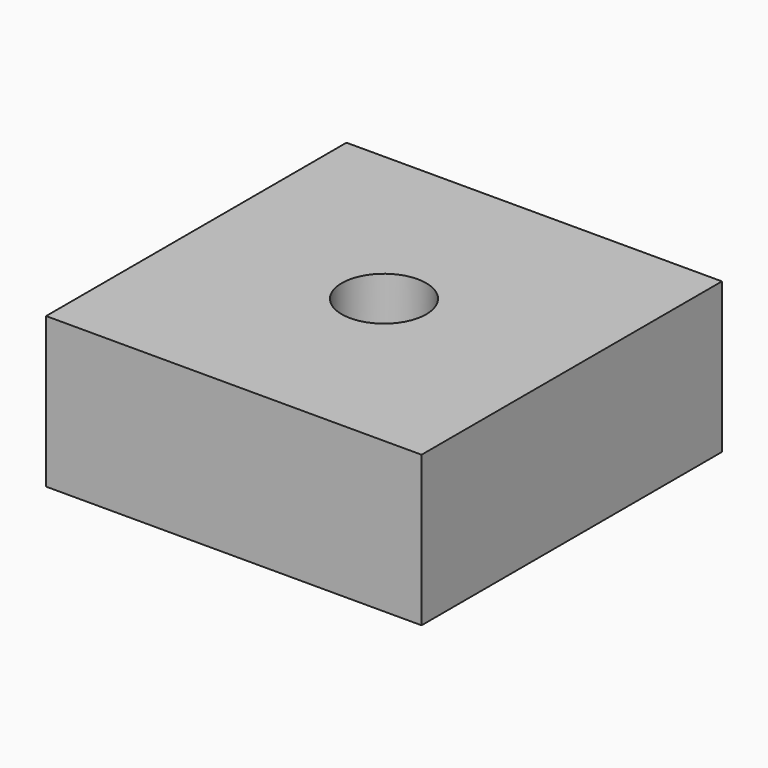
from build123d import *

# Parameters (mm, degrees)
F0_W     = 20
F0_H     = 20
F0_R     = 4
F0_R_2   = 2.25
F1_DEPTH = 8
F2_DEPTH = 5


with BuildPart() as f1:
    # F0 (on Top) → F1 (new body)
    with BuildSketch(Plane.XY):
        Rectangle(F0_W, F0_H)
        Circle(F0_R, mode=Mode.SUBTRACT)
        Circle(F0_R)
        Circle(F0_R_2, mode=Mode.SUBTRACT)
    extrude(amount=F1_DEPTH)

    # F0 (on Top) → F2 (cut)
    with BuildSketch(Plane.XY):
        Circle(F0_R)
        Circle(F0_R_2, mode=Mode.SUBTRACT)
    extrude(amount=F2_DEPTH, mode=Mode.SUBTRACT)


solid = f1.part
